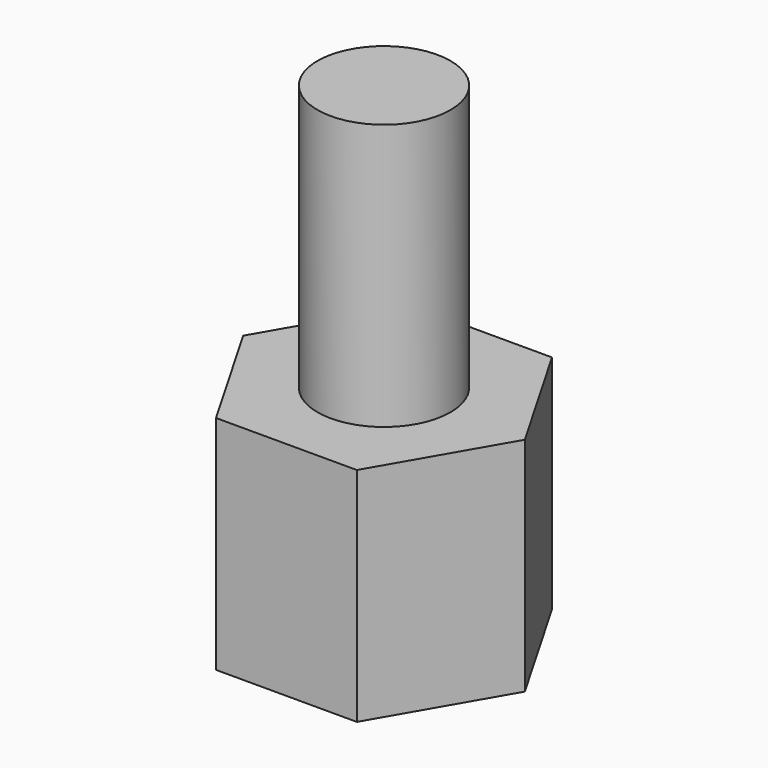
from build123d import *

# Parameters (mm, degrees)
F1_DEPTH = 5
F2_R     = 1.5
F3_DEPTH = 6
F4_R     = 1.25
F5_DEPTH = 4


with BuildPart() as f1:
    # F0 (on Top) → F1 (new body)
    with BuildSketch(Plane.XY):
        Polygon((1.587713, 2.75), (-1.587713, 2.75), (-3.175426, 0), (-1.587713, -2.75), (1.587713, -2.75), (3.175426, 0), align=None)
    extrude(amount=F1_DEPTH)

    # F2 (on face) → F3 (join)
    with BuildSketch(Plane.XY.offset(5)):
        Circle(F2_R)
    extrude(amount=F3_DEPTH)

    # F4 (on face) → F5 (cut)
    with BuildSketch(Plane(origin=(0, 0, 0), x_dir=(1, 0, 0), z_dir=(0, 0, -1))):
        Circle(F4_R)
    extrude(amount=-F5_DEPTH, mode=Mode.SUBTRACT)


solid = f1.part
